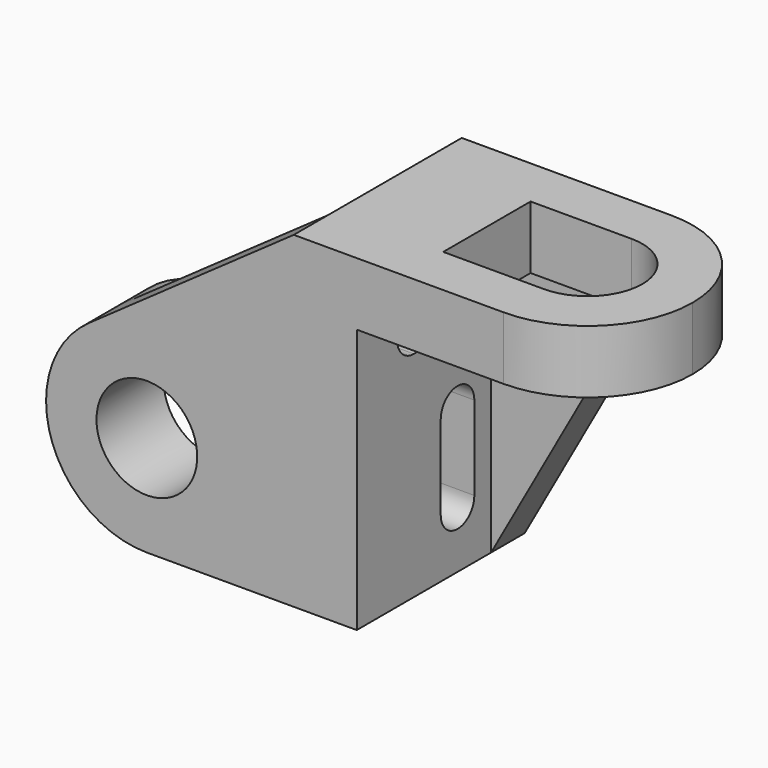
from build123d import *

# Parameters (mm, degrees)
SKETCH_W        = 25
SKETCH_H        = 50
PAD_DEPTH       = 78
SKETCH001_W     = 10
SKETCH001_H     = 30
POCKET_DEPTH    = 50
SKETCH002_W     = 20
SKETCH002_H     = 48
PAD001_DEPTH    = 49
FILLET_R        = 24
POCKET001_DEPTH = 20
SKETCH004_W     = 50
SKETCH004_H     = 15
PAD002_DEPTH    = 60
FILLET001_R     = 25
POCKET002_DEPTH = 15
SKETCH006_R     = 12
POCKET003_DEPTH = 20
POCKET004_DEPTH = 15
POCKET005_DEPTH = 15
POCKET006_DEPTH = 25
PAD003_DEPTH    = 10
PAD004_DEPTH    = 10


with BuildPart() as part:
    # Sketch → Pad (new body)
    with BuildSketch(Plane.XY):
        with Locations((12.5, 25)):
            Rectangle(SKETCH_W, SKETCH_H)
    extrude(amount=PAD_DEPTH)

    # Sketch001 (on Face3 of Pad) → Pocket (cut)
    with BuildSketch(Plane(origin=(0, 50, 0), x_dir=(-1, 0, 0), z_dir=(0, 1, 0))):
        with Locations((-5, 63)):
            Rectangle(SKETCH001_W, SKETCH001_H)
    extrude(amount=-POCKET_DEPTH, mode=Mode.SUBTRACT)

    # Sketch002 (on Face7 of Pocket) → Pad001 (join)
    with BuildSketch(Plane(origin=(0, 0, 0), x_dir=(0, -1, 0), z_dir=(-1, 0, 0))):
        with Locations((-10, 24)):
            Rectangle(SKETCH002_W, SKETCH002_H)
    extrude(amount=PAD001_DEPTH)

    # Fillet
    fillet_edges = [part.edges().sort_by_distance(p)[0] for p in [
        (-49, 10, 0),
    ]]
    fillet(fillet_edges, radius=FILLET_R)

    # Sketch003 (on Face8 of Fillet) → Pocket001 (cut)
    with BuildSketch(Plane(origin=(0, 20, 0), x_dir=(-1, 0, 0), z_dir=(0, 1, 0))):
        with BuildLine():
            ThreePointArc((49, 24), (41.970563, 40.970563), (25, 48))
            Line((25, 48), (49, 48))
            Line((49, 48), (49, 24))
        make_face()
    extrude(amount=-POCKET001_DEPTH, mode=Mode.SUBTRACT)

    # Sketch004 (on Face10 of Pocket001) → Pad002 (join)
    with BuildSketch(Plane.YZ.offset(25)):
        with Locations((25, 70.5)):
            Rectangle(SKETCH004_W, SKETCH004_H)
    extrude(amount=PAD002_DEPTH)

    # Fillet001
    fillet001_edges = [part.edges().sort_by_distance(p)[0] for p in [
        (85, 0, 70.5),
    ]]
    fillet(fillet001_edges, radius=FILLET001_R)

    # Sketch005 (on Face2 of Fillet001) → Pocket002 (cut)
    with BuildSketch(Plane.XY.offset(78)):
        with BuildLine():
            ThreePointArc((85, 25), (77.67767, 42.67767), (60, 50))
            Line((60, 50), (85, 50))
            Line((85, 50), (85, 25))
        make_face()
    extrude(amount=-POCKET002_DEPTH, mode=Mode.SUBTRACT)

    # Sketch006 (on Face20 of Pocket002) → Pocket003 (cut)
    with BuildSketch(Plane(origin=(0, 20, 0), x_dir=(-1, 0, 0), z_dir=(0, 1, 0))):
        with Locations((25, 24)):
            Circle(SKETCH006_R)
    extrude(amount=-POCKET003_DEPTH, mode=Mode.SUBTRACT)

    # Sketch007 (on Face2 of Pocket003) → Pocket004 (cut)
    with BuildSketch(Plane.XY.offset(78)):
        with BuildLine():
            ThreePointArc((60, 12), (73, 25), (60, 38))
            Line((60, 38), (36, 38))
            Line((36, 38), (36, 12))
            Line((36, 12), (60, 12))
        make_face()
    extrude(amount=-POCKET004_DEPTH, mode=Mode.SUBTRACT)

    # Sketch008 (on Face15 of Pocket004) → Pocket005 (cut)
    with BuildSketch(Plane(origin=(10, 0, 0), x_dir=(0, -1, 0), z_dir=(-1, 0, 0))):
        with BuildLine():
            ThreePointArc((-33, 61), (-38, 56), (-33, 51))
            Line((-33, 51), (-17, 51))
            ThreePointArc((-17, 51), (-12, 56), (-17, 61))
            Line((-33, 61), (-17, 61))
        make_face()
    extrude(amount=-POCKET005_DEPTH, mode=Mode.SUBTRACT)

    # Sketch009 (on Face19 of Pocket005) → Pocket006 (cut)
    with BuildSketch(Plane(origin=(0, 0, 0), x_dir=(0, -1, 0), z_dir=(-1, 0, 0))):
        with BuildLine():
            ThreePointArc((-35, 14), (-30, 9), (-25, 14))
            Line((-25, 14), (-25, 34))
            ThreePointArc((-25, 34), (-30, 39), (-35, 34))
            Line((-35, 14), (-35, 34))
        make_face()
    extrude(amount=-POCKET006_DEPTH, mode=Mode.SUBTRACT)

    # Sketch010 (on DatumPlane) → Pad003 (join)
    with BuildSketch(Plane.XZ):
        with BuildLine():
            Line((10, 48), (10, 78))
            Line((10, 78), (-38.818227, 43.622859))
            ThreePointArc((-25, 48), (-32.247461, 46.879561), (-38.818227, 43.622859))
            Line((10, 48), (-25, 48))
        make_face()
    extrude(amount=-PAD003_DEPTH)

    # Sketch011 (on DatumPlane) → Pad004 (join)
    with BuildSketch(Plane(origin=(0, 50, 0), x_dir=(-1, 0, 0), z_dir=(0, 1, 0))):
        Polygon((-60, 63), (-25, 63), (-25, 0), align=None)
    extrude(amount=-PAD004_DEPTH)


solid = part.part
